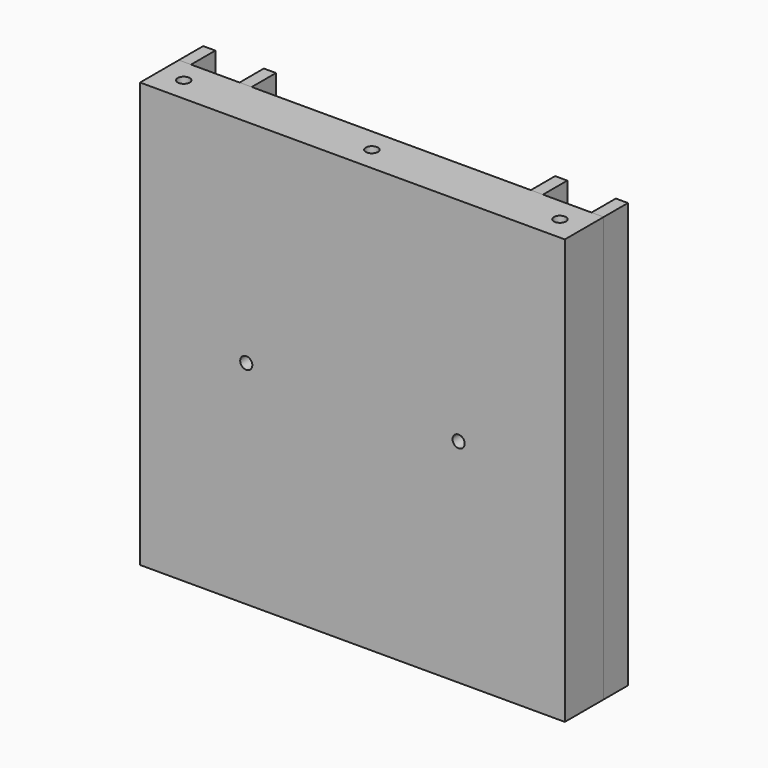
from build123d import *

# Parameters (mm, degrees)
BOX008_W          = 2
BOX008_H          = 5
BOX008_DEPTH      = 70
BOX009_W          = 2
BOX009_H          = 5
BOX009_DEPTH      = 70
BOX010_W          = 2
BOX010_H          = 5
BOX010_DEPTH      = 70
BOX011_W          = 2
BOX011_H          = 5
BOX011_DEPTH      = 70
BOX003_W          = 2
BOX003_H          = 5
BOX003_DEPTH      = 70
BOX004_W          = 2
BOX004_H          = 5
BOX004_DEPTH      = 70
BOX002_W          = 2
BOX002_H          = 5
BOX002_DEPTH      = 70
CYLINDER004_R     = 1
CYLINDER004_DEPTH = 8
CYLINDER003_R     = 1
CYLINDER003_DEPTH = 8
CYLINDER_R        = 1
CYLINDER_DEPTH    = 70
CYLINDER002_R     = 1
CYLINDER002_DEPTH = 70
CYLINDER001_R     = 1
CYLINDER001_DEPTH = 70
BOX001_W          = 70
BOX001_H          = 8
BOX001_DEPTH      = 70
BOX_W             = 2
BOX_H             = 5
BOX_DEPTH         = 70
CYLINDER009_R     = 1
CYLINDER009_DEPTH = 8
CYLINDER008_R     = 1
CYLINDER008_DEPTH = 8
CYLINDER005_R     = 1
CYLINDER005_DEPTH = 70
CYLINDER006_R     = 1
CYLINDER006_DEPTH = 70
CYLINDER007_R     = 1
CYLINDER007_DEPTH = 70
BOX007_W          = 70
BOX007_H          = 8
BOX007_DEPTH      = 70


with BuildPart() as obj1:
    # Box008 → Box008 (new body)
    with BuildSketch(Plane(origin=(1, 9, 0), x_dir=(1, 0, 0), z_dir=(0, 0, 1))):
        with Locations((1, 2.5)):
            Rectangle(BOX008_W, BOX008_H)
    extrude(amount=BOX008_DEPTH)


with BuildPart() as obj2:
    # Box009 → Box009 (new body)
    with BuildSketch(Plane(origin=(11, 9, 0), x_dir=(1, 0, 0), z_dir=(0, 0, 1))):
        with Locations((1, 2.5)):
            Rectangle(BOX009_W, BOX009_H)
    extrude(amount=BOX009_DEPTH)


with BuildPart() as obj3:
    # Box010 → Box010 (new body)
    with BuildSketch(Plane(origin=(69, 9, 0), x_dir=(1, 0, 0), z_dir=(0, 0, 1))):
        with Locations((1, 2.5)):
            Rectangle(BOX010_W, BOX010_H)
    extrude(amount=BOX010_DEPTH)


with BuildPart() as obj4:
    # Box011 → Box011 (new body)
    with BuildSketch(Plane(origin=(59, 9, 0), x_dir=(1, 0, 0), z_dir=(0, 0, 1))):
        with Locations((1, 2.5)):
            Rectangle(BOX011_W, BOX011_H)
    extrude(amount=BOX011_DEPTH)


with BuildPart() as obj5:
    # Box003 → Box003 (new body)
    with BuildSketch(Plane(origin=(69, 9, 0), x_dir=(1, 0, 0), z_dir=(0, 0, 1))):
        with Locations((1, 2.5)):
            Rectangle(BOX003_W, BOX003_H)
    extrude(amount=BOX003_DEPTH)


with BuildPart() as obj6:
    # Box004 → Box004 (new body)
    with BuildSketch(Plane(origin=(59, 9, 0), x_dir=(1, 0, 0), z_dir=(0, 0, 1))):
        with Locations((1, 2.5)):
            Rectangle(BOX004_W, BOX004_H)
    extrude(amount=BOX004_DEPTH)


with BuildPart() as obj7:
    # Box002 → Box002 (new body)
    with BuildSketch(Plane(origin=(11, 9, 0), x_dir=(1, 0, 0), z_dir=(0, 0, 1))):
        with Locations((1, 2.5)):
            Rectangle(BOX002_W, BOX002_H)
    extrude(amount=BOX002_DEPTH)


with BuildPart() as zylinder004:
    # Cylinder004 → Cylinder004 (new body)
    with BuildSketch(Plane(origin=(53.5, 9, 35), x_dir=(1, 0, 0), z_dir=(0, -1, 0))):
        Circle(CYLINDER004_R)
    extrude(amount=CYLINDER004_DEPTH)


with BuildPart() as zylinder003:
    # Cylinder003 → Cylinder003 (new body)
    with BuildSketch(Plane(origin=(18.5, 9, 35), x_dir=(1, 0, 0), z_dir=(0, -1, 0))):
        Circle(CYLINDER003_R)
    extrude(amount=CYLINDER003_DEPTH)


with BuildPart() as zylinder:
    # Cylinder → Cylinder (new body)
    with BuildSketch(Plane(origin=(36, 5, 0), x_dir=(1, 0, 0), z_dir=(0, 0, 1))):
        Circle(CYLINDER_R)
    extrude(amount=CYLINDER_DEPTH)


with BuildPart() as zylinder002:
    # Cylinder002 → Cylinder002 (new body)
    with BuildSketch(Plane(origin=(67, 5, 0), x_dir=(1, 0, 0), z_dir=(0, 0, 1))):
        Circle(CYLINDER002_R)
    extrude(amount=CYLINDER002_DEPTH)


with BuildPart() as zylinder001:
    # Cylinder001 → Cylinder001 (new body)
    with BuildSketch(Plane(origin=(5, 5, 0), x_dir=(1, 0, 0), z_dir=(0, 0, 1))):
        Circle(CYLINDER001_R)
    extrude(amount=CYLINDER001_DEPTH)


with BuildPart() as cut004:
    # Box001 → Box001 (new body)
    with BuildSketch(Plane(origin=(1, 1, 0), x_dir=(1, 0, 0), z_dir=(0, 0, 1))):
        with Locations((35, 4)):
            Rectangle(BOX001_W, BOX001_H)
    extrude(amount=BOX001_DEPTH)

    # Cut: cut Zylinder001
    add(zylinder001.part, mode=Mode.SUBTRACT)

    # Cut001: cut Zylinder002
    add(zylinder002.part, mode=Mode.SUBTRACT)

    # Cut002: cut Zylinder
    add(zylinder.part, mode=Mode.SUBTRACT)

    # Cut003: cut Zylinder003
    add(zylinder003.part, mode=Mode.SUBTRACT)

    # Cut004: cut Zylinder004
    add(zylinder004.part, mode=Mode.SUBTRACT)


with BuildPart() as fusion:
    # Box → Box (new body)
    with BuildSketch(Plane(origin=(1, 9, 0), x_dir=(1, 0, 0), z_dir=(0, 0, 1))):
        with Locations((1, 2.5)):
            Rectangle(BOX_W, BOX_H)
    extrude(amount=BOX_DEPTH)

    # Fusion: union obj5, obj6, obj7, Cut004
    add(obj5.part)
    add(obj6.part)
    add(obj7.part)
    add(cut004.part)


with BuildPart() as zylinder009:
    # Cylinder009 → Cylinder009 (new body)
    with BuildSketch(Plane(origin=(53.5, 9, 35), x_dir=(1, 0, 0), z_dir=(0, -1, 0))):
        Circle(CYLINDER009_R)
    extrude(amount=CYLINDER009_DEPTH)


with BuildPart() as zylinder008:
    # Cylinder008 → Cylinder008 (new body)
    with BuildSketch(Plane(origin=(18.5, 9, 35), x_dir=(1, 0, 0), z_dir=(0, -1, 0))):
        Circle(CYLINDER008_R)
    extrude(amount=CYLINDER008_DEPTH)


with BuildPart() as zylinder005:
    # Cylinder005 → Cylinder005 (new body)
    with BuildSketch(Plane(origin=(36, 5, 0), x_dir=(1, 0, 0), z_dir=(0, 0, 1))):
        Circle(CYLINDER005_R)
    extrude(amount=CYLINDER005_DEPTH)


with BuildPart() as zylinder006:
    # Cylinder006 → Cylinder006 (new body)
    with BuildSketch(Plane(origin=(67, 5, 0), x_dir=(1, 0, 0), z_dir=(0, 0, 1))):
        Circle(CYLINDER006_R)
    extrude(amount=CYLINDER006_DEPTH)


with BuildPart() as zylinder007:
    # Cylinder007 → Cylinder007 (new body)
    with BuildSketch(Plane(origin=(5, 5, 0), x_dir=(1, 0, 0), z_dir=(0, 0, 1))):
        Circle(CYLINDER007_R)
    extrude(amount=CYLINDER007_DEPTH)


with BuildPart() as cut008:
    # Box007 → Box007 (new body)
    with BuildSketch(Plane(origin=(1, 1, 0), x_dir=(1, 0, 0), z_dir=(0, 0, 1))):
        with Locations((35, 4)):
            Rectangle(BOX007_W, BOX007_H)
    extrude(amount=BOX007_DEPTH)

    # Cut005: cut Zylinder007
    add(zylinder007.part, mode=Mode.SUBTRACT)

    # Cut009: cut Zylinder006
    add(zylinder006.part, mode=Mode.SUBTRACT)

    # Cut007: cut Zylinder005
    add(zylinder005.part, mode=Mode.SUBTRACT)

    # Cut006: cut Zylinder008
    add(zylinder008.part, mode=Mode.SUBTRACT)

    # Cut008: cut Zylinder009
    add(zylinder009.part, mode=Mode.SUBTRACT)


solid = Compound([obj1.part, obj2.part, obj3.part, obj4.part, fusion.part, cut008.part])
